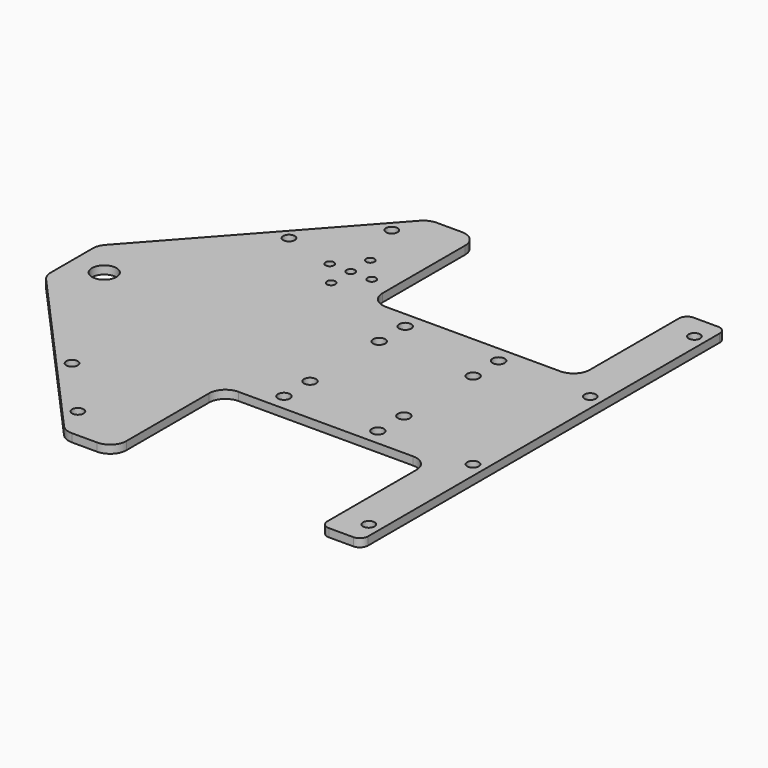
from build123d import *

# Parameters (mm, degrees)
SKETCH_R        = 2.3622
SKETCH_R_2      = 4.7625
PAD_DEPTH       = 3.175
FILLET_R        = 6.35
FILLET001_R     = 6.35
FILLET002_R     = 6.35
FILLET003_R     = 6.35
FILLET004_R     = 6.35
FILLET005_R     = 3.175
FILLET006_R     = 3.175
FILLET007_R     = 6.35
FILLET008_R     = 6.35
FILLET009_R     = 6.35
FILLET010_R     = 6.35
FILLET011_R     = 6.35
FILLET012_R     = 3.175
FILLET013_R     = 3.175
SKETCH001_R     = 1.651
POCKET_DEPTH    = 3.176
SKETCH002_R     = 2.2479
POCKET001_DEPTH = 3.176
SKETCH003_R     = 2.2479
POCKET002_DEPTH = 4.99999


with BuildPart() as part:
    # Sketch → Pad (new body)
    with BuildSketch(Plane(origin=(-14.3421, 44.2432, 43.6758), x_dir=(1, 0, 0), z_dir=(0, 0, 1))):
        Polygon((40.4368, 35.9029), (-40.4368, 35.9029), (-40.4368, 88.9), (-59.4868, 88.9), (-127.8382, 12.7), (-127.8382, -12.7), (-59.4868, -88.9), (-40.4368, -88.9), (-40.4368, -35.9029), (40.4368, -35.9029), (40.4368, -88.9), (56.3118, -88.9), (56.3118, 88.9), (40.4368, 88.9), align=None)
        with Locations((-21.3868, 29.5529)):
            Circle(SKETCH_R, mode=Mode.SUBTRACT)
        with Locations((-21.3868, 16.8529)):
            Circle(SKETCH_R, mode=Mode.SUBTRACT)
        with Locations((-21.3868, -16.8529)):
            Circle(SKETCH_R, mode=Mode.SUBTRACT)
        with Locations((-21.3868, -29.5529)):
            Circle(SKETCH_R, mode=Mode.SUBTRACT)
        with Locations((15.0368, 29.5529)):
            Circle(SKETCH_R, mode=Mode.SUBTRACT)
        with Locations((15.24, 16.8529)):
            Circle(SKETCH_R, mode=Mode.SUBTRACT)
        with Locations((15.24, -16.8529)):
            Circle(SKETCH_R, mode=Mode.SUBTRACT)
        with Locations((15.24, -29.5529)):
            Circle(SKETCH_R, mode=Mode.SUBTRACT)
        with Locations((-115.1382, 0)):
            Circle(SKETCH_R_2, mode=Mode.SUBTRACT)
    extrude(amount=PAD_DEPTH)

    # Fillet
    fillet_edges = [part.edges().sort_by_distance(p)[0] for p in [
        (-142.1803, 31.5432, 45.2633),
    ]]
    fillet(fillet_edges, radius=FILLET_R)

    # Fillet001
    fillet001_edges = [part.edges().sort_by_distance(p)[0] for p in [
        (-73.8289, -44.6568, 45.2633),
    ]]
    fillet(fillet001_edges, radius=FILLET001_R)

    # Fillet002
    fillet002_edges = [part.edges().sort_by_distance(p)[0] for p in [
        (-54.7789, -44.6568, 45.2633),
    ]]
    fillet(fillet002_edges, radius=FILLET002_R)

    # Fillet003
    fillet003_edges = [part.edges().sort_by_distance(p)[0] for p in [
        (-54.7789, 8.3403, 45.2633),
    ]]
    fillet(fillet003_edges, radius=FILLET003_R)

    # Fillet004
    fillet004_edges = [part.edges().sort_by_distance(p)[0] for p in [
        (26.0947, 8.3403, 45.2633),
    ]]
    fillet(fillet004_edges, radius=FILLET004_R)

    # Fillet005
    fillet005_edges = [part.edges().sort_by_distance(p)[0] for p in [
        (26.0947, -44.6568, 45.2633),
    ]]
    fillet(fillet005_edges, radius=FILLET005_R)

    # Fillet006
    fillet006_edges = [part.edges().sort_by_distance(p)[0] for p in [
        (41.9697, -44.6568, 45.2633),
    ]]
    fillet(fillet006_edges, radius=FILLET006_R)

    # Fillet007
    fillet007_edges = [part.edges().sort_by_distance(p)[0] for p in [
        (-142.1803, 56.9432, 45.2633),
    ]]
    fillet(fillet007_edges, radius=FILLET007_R)

    # Fillet008
    fillet008_edges = [part.edges().sort_by_distance(p)[0] for p in [
        (-73.8289, 133.1432, 45.2633),
    ]]
    fillet(fillet008_edges, radius=FILLET008_R)

    # Fillet009
    fillet009_edges = [part.edges().sort_by_distance(p)[0] for p in [
        (-54.7789, 133.1432, 45.2633),
    ]]
    fillet(fillet009_edges, radius=FILLET009_R)

    # Fillet010
    fillet010_edges = [part.edges().sort_by_distance(p)[0] for p in [
        (26.0947, 80.1461, 45.2633),
    ]]
    fillet(fillet010_edges, radius=FILLET010_R)

    # Fillet011
    fillet011_edges = [part.edges().sort_by_distance(p)[0] for p in [
        (-54.7789, 80.1461, 45.2633),
    ]]
    fillet(fillet011_edges, radius=FILLET011_R)

    # Fillet012
    fillet012_edges = [part.edges().sort_by_distance(p)[0] for p in [
        (26.0947, 133.1432, 45.2633),
    ]]
    fillet(fillet012_edges, radius=FILLET012_R)

    # Fillet013
    fillet013_edges = [part.edges().sort_by_distance(p)[0] for p in [
        (41.9697, 133.1432, 45.2633),
    ]]
    fillet(fillet013_edges, radius=FILLET013_R)

    # Sketch001 → Pocket (cut, through all)
    with BuildSketch(Plane(origin=(-14.3421, 44.2432, 46.8508), x_dir=(1, 0, 0), z_dir=(0, 0, 1))):
        with Locations((-56.906653, 47.390231)):
            Circle(SKETCH001_R)
        with Locations((-65.098153, 47.390231)):
            Circle(SKETCH001_R)
        with Locations((-56.906653, 56.915231)):
            Circle(SKETCH001_R)
        with Locations((-48.715153, 47.390231)):
            Circle(SKETCH001_R)
        with Locations((-56.906653, 37.865231)):
            Circle(SKETCH001_R)
    extrude(amount=-POCKET_DEPTH, mode=Mode.SUBTRACT)

    # Sketch002 → Pocket001 (cut, through all)
    with BuildSketch(Plane(origin=(-14.3421, 44.2432, 46.8508), x_dir=(1, 0, 0), z_dir=(0, 0, 1))):
        with Locations((-85.394727, -52.884764)):
            Circle(SKETCH002_R)
        with Locations((-64.1943, -76.519577)):
            Circle(SKETCH002_R)
        with Locations((-64.1943, 76.519577)):
            Circle(SKETCH002_R)
        with Locations((-85.394727, 52.884764)):
            Circle(SKETCH002_R)
    extrude(amount=-POCKET001_DEPTH, mode=Mode.SUBTRACT)

    # Sketch003 → Pocket002 (cut)
    with BuildSketch(Plane(origin=(-14.3421, 44.2432, 46.8508), x_dir=(1, 0, 0), z_dir=(0, 0, 1))):
        with Locations((51.5493, -79.375)):
            Circle(SKETCH003_R)
        with Locations((51.5493, -28.575)):
            Circle(SKETCH003_R)
        with Locations((51.5493, 79.375)):
            Circle(SKETCH003_R)
        with Locations((51.5493, 28.575)):
            Circle(SKETCH003_R)
    extrude(amount=-POCKET002_DEPTH, mode=Mode.SUBTRACT)


solid = part.part
